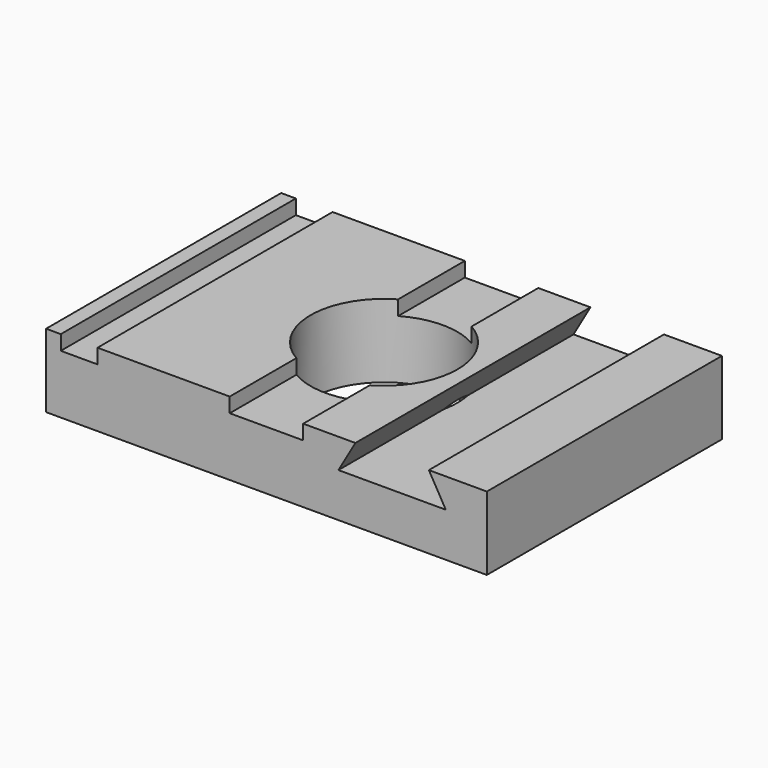
from build123d import *

# Parameters (mm, degrees)
F0_W     = 76.2
F0_H     = 50.8
F0_R     = 12.7
F1_DEPTH = 12.7
F2_W     = 6.35
F2_H     = 50.8
F3_DEPTH = 2.54
F5_DEPTH = 50.801


with BuildPart() as f1:
    # F0 (on Top) → F1 (new body)
    with BuildSketch(Plane.XY):
        Rectangle(F0_W, F0_H)
        Circle(F0_R, mode=Mode.SUBTRACT)
    extrude(amount=F1_DEPTH)

    # F2 (on face) → F3 (cut)
    with BuildSketch(Plane.XY.offset(12.7)):
        with Locations((-32.385, 0)):
            Rectangle(F2_W, F2_H)
        with BuildLine():
            Line((-6.35, -10.9985226281), (-6.35, -25.4))
            Line((-6.35, -25.4), (6.35, -25.4))
            Line((6.35, -25.4), (6.35, -10.9985226281))
            ThreePointArc((6.35, -10.9985226281), (0, -12.7), (-6.35, -10.9985226281))
        make_face()
        with BuildLine():
            Line((6.35, 25.4), (-6.35, 25.4))
            Line((-6.35, 25.4), (-6.35, 10.9985226281))
            ThreePointArc((-6.35, 10.9985226281), (0, 12.7), (6.35, 10.9985226281))
            Line((6.35, 10.9985226281), (6.35, 25.4))
        make_face()
    extrude(amount=-F3_DEPTH, mode=Mode.SUBTRACT)

    # F4 (on face) → F5 (cut, through all)
    with BuildSketch(Plane.XZ.offset(25.4)):
        Polygon((28.0736974643, 12.7), (15.3736974643, 12.7), (12.4407580968, 7.62), (31.0066368318, 7.62), align=None)
    extrude(amount=-F5_DEPTH, mode=Mode.SUBTRACT)


solid = f1.part
